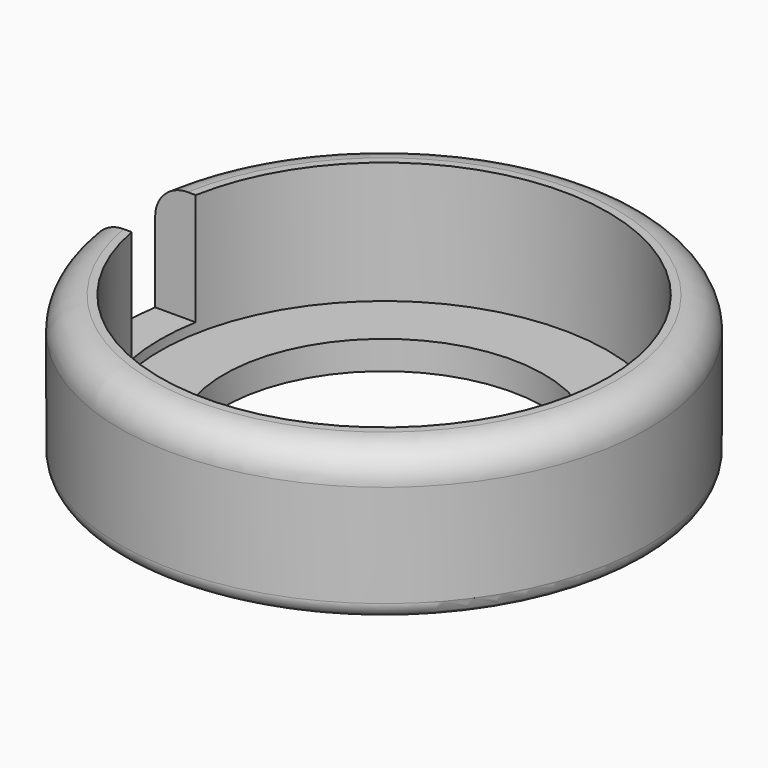
from build123d import *

# Parameters (mm, degrees)
F0_R      = 16.5
F1_DEPTH  = 9.4
F2_R      = 14
F3_DEPTH  = 7.62
F4_R      = 2
F6_DEPTH  = 7
F8_DEPTH  = 5.5
F9_R      = 1
F10_R     = 10
F11_DEPTH = 3


with BuildPart() as f1:
    # F0 (on Top) → F1 (new body)
    with BuildSketch(Plane.XY):
        Circle(F0_R)
    extrude(amount=F1_DEPTH)

    # F2 (on face) → F3 (cut)
    with BuildSketch(Plane.XY.offset(9.4)):
        Circle(F2_R)
    extrude(amount=-F3_DEPTH, mode=Mode.SUBTRACT)

    # F4
    f4_edges = [f1.edges().sort_by_distance(p)[0] for p in [
        (-16.5, 0, 9.4),
    ]]
    fillet(f4_edges, radius=F4_R)

    # F5 (on face) → F6 (cut)
    with BuildSketch(Plane.XY.offset(9.4)):
        with BuildLine():
            ThreePointArc((-13.774977314, -2.5), (-14, 0), (-13.774977314, 2.5))
            Line((-13.774977314, 2.5), (-16.3095064303, 2.5))
            ThreePointArc((-16.3095064303, 2.5), (-16.5, 0), (-16.3095064303, -2.5))
            Line((-16.3095064303, -2.5), (-13.774977314, -2.5))
        make_face()
    extrude(amount=-F6_DEPTH, mode=Mode.SUBTRACT)

    # F7 (on face) → F8 (cut)
    with BuildSketch(Plane.XY.offset(9.4)):
        with BuildLine():
            ThreePointArc((-13.913931867, -1.55), (-14, 0), (-13.913931867, 1.55))
            Line((-13.913931867, 1.55), (-16.4270356425, 1.55))
            ThreePointArc((-16.4270356425, 1.55), (-16.5, 0), (-16.4270356425, -1.55))
            Line((-16.4270356425, -1.55), (-13.913931867, -1.55))
        make_face()
    extrude(amount=-F8_DEPTH, mode=Mode.SUBTRACT)

    # F9
    f9_edges = [f1.edges().sort_by_distance(p)[0] for p in [
        (-16.5, 0, 0),
    ]]
    fillet(f9_edges, radius=F9_R)

    # F10 (on face) → F11 (cut)
    with BuildSketch(Plane.XY.offset(1.78)):
        Circle(F10_R)
    extrude(amount=-F11_DEPTH, mode=Mode.SUBTRACT)


solid = f1.part
